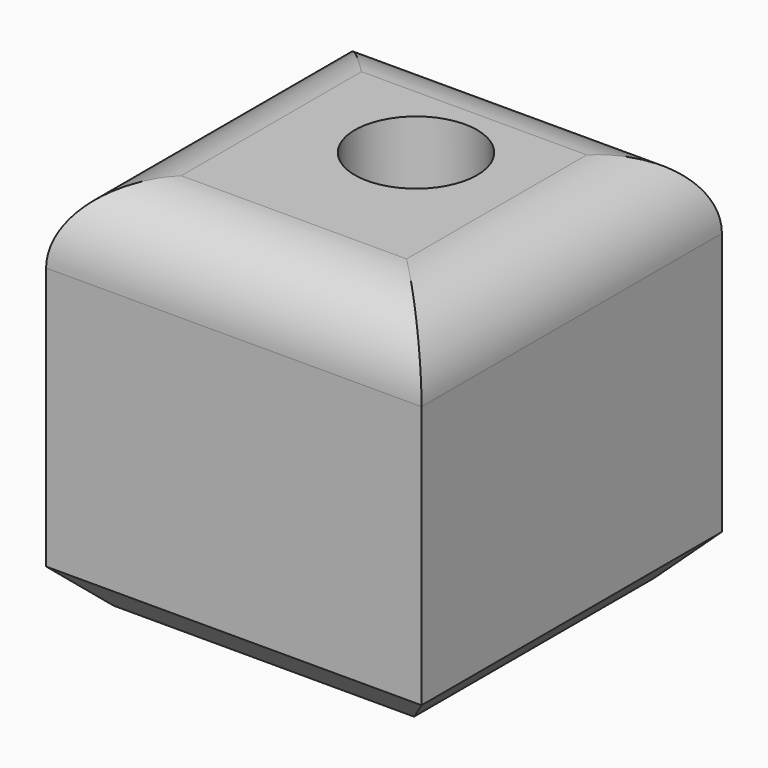
from build123d import *

# Parameters (mm, degrees)
F0_W     = 100
F0_H     = 100
F1_DEPTH = 100
F2_R     = 20
F3_SIZE  = 10
F4_R     = 16.280572
F5_DEPTH = 173.821


with BuildPart() as f1:
    # F0 (on Top) → F1 (new body)
    with BuildSketch(Plane.XY):
        with Locations((3.83367, 5.873055)):
            Rectangle(F0_W, F0_H)
    extrude(amount=F1_DEPTH)

    # F2
    f2_edges = [f1.edges().sort_by_distance(p)[0] for p in [
        (-46.16633, 5.873055, 100),
        (3.83367, -44.126945, 100),
        (3.83367, 55.873055, 100),
        (53.83367, 5.873055, 100),
    ]]
    fillet(f2_edges, radius=F2_R)

    # F3
    f3_edges = [f1.edges().sort_by_distance(p)[0] for p in [
        (3.83367, -44.126945, 0),
        (53.83367, 5.873055, 0),
        (3.83367, 55.873055, 0),
        (-46.16633, 5.873055, 0),
    ]]
    chamfer(f3_edges, length=F3_SIZE)

    # F4 (on face) → F5 (cut)
    with BuildSketch(Plane.XY.offset(100)):
        with Locations((5.431035, 14.536005)):
            Circle(F4_R)
    extrude(amount=-F5_DEPTH, mode=Mode.SUBTRACT)


solid = f1.part
